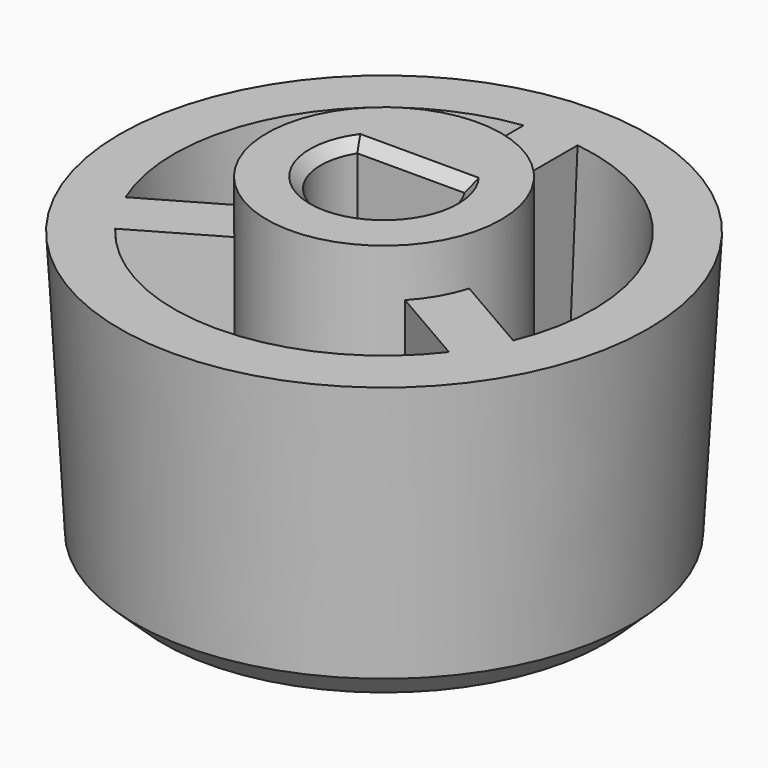
from build123d import *

# Parameters (mm, degrees)
F2_R     = 5.5245
F3_DEPTH = 13.462
F4_W     = 2.54
F4_H     = 5.842
F5_DEPTH = 11.176
F6_SIZE  = 0.508
F7_SIZE  = 1.27


with BuildPart() as f1:
    # F0 (on Front) → F1 (revolve)
    with BuildSketch(Plane.XZ):
        Polygon((0, 2.54), (0, 0), (11.684, 0), (12.446, 13.716), (9.902083, 13.716), (9.281194, 2.54), align=None)
    revolve(axis=Axis((0, 0, 1.27), (0, 0, 1)))

    # F2 (on face) → F3 (join)
    with BuildSketch(Plane.XY.offset(2.54)):
        Circle(F2_R)
        with BuildLine():
            ThreePointArc((2.527179, 1.587642), (0, -2.9845), (-2.527179, 1.587642))
            Line((-2.527179, 1.587642), (2.527179, 1.587642))
        make_face(mode=Mode.SUBTRACT)
    extrude(amount=F3_DEPTH)

    # F4 (on face) → F5 (join, through all)
    with BuildSketch(Plane.XY.offset(2.54)):
        with Locations((0, 8.001)):
            Rectangle(F4_W, F4_H)
        Polygon((-10.093729, -4.361148), (-8.823729, -6.560852), (-3.764409, -3.639852), (-5.034409, -1.440148), align=None)
        Polygon((8.823729, -6.560852), (10.093729, -4.361148), (5.034409, -1.440148), (3.764409, -3.639852), align=None)
    extrude(amount=F5_DEPTH)

    # F6
    f6_edges = [f1.edges().sort_by_distance(p)[0] for p in [
        (0, 1.587642, 16.002),
        (0, -2.9845, 16.002),
    ]]
    chamfer(f6_edges, length=F6_SIZE)

    # F7
    f7_edges = [f1.edges().sort_by_distance(p)[0] for p in [
        (-11.684, 0, 0),
    ]]
    chamfer(f7_edges, length=F7_SIZE)


solid = f1.part
